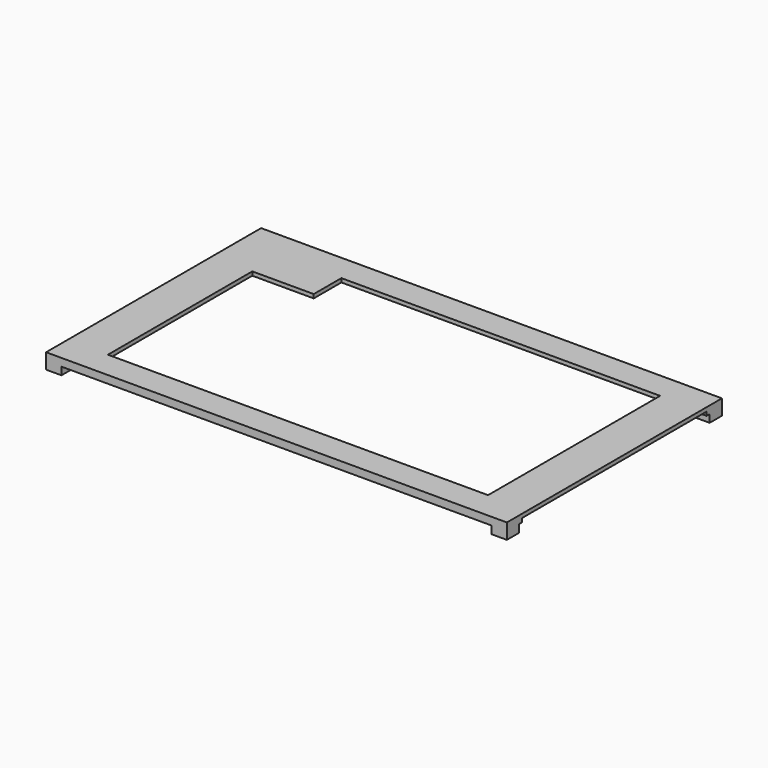
from build123d import *

# Parameters (mm, degrees)
F0_W     = 120
F0_H     = 70
F1_DEPTH = 2
F3_DEPTH = 1
F4_W     = 4
F4_H     = 4
F5_DEPTH = 2


with BuildPart() as f1:
    # F0 (on Top) → F1 (new body)
    with BuildSketch(Plane.XY):
        with Locations((35.5, 30)):
            Rectangle(F0_W, F0_H)
        Polygon((2, 49), (2, 58), (85, 58), (85, 2), (-14, 2), (-14, 49), align=None, mode=Mode.SUBTRACT)
    extrude(amount=F1_DEPTH)

    # F2 (on face) → F3 (cut)
    with BuildSketch(Plane(origin=(0, 0, 0), x_dir=(1, 0, 0), z_dir=(0, 0, -1))):
        Polygon((95.5, 0), (-16, 0), (-16, -51), (0, -51), (0, -60), (95.5, -60), align=None)
    extrude(amount=-F3_DEPTH, mode=Mode.SUBTRACT)

    # F4 (on face) → F5 (join)
    with BuildSketch(Plane(origin=(0, 0, 0), x_dir=(1, 0, 0), z_dir=(0, 0, -1))):
        with Locations((-22.5, 3)):
            Rectangle(F4_W, F4_H)
        with Locations((-22.5, -63)):
            Rectangle(F4_W, F4_H)
        with Locations((93.5, 3)):
            Rectangle(F4_W, F4_H)
        with Locations((93.5, -63)):
            Rectangle(F4_W, F4_H)
    extrude(amount=F5_DEPTH)


solid = f1.part
